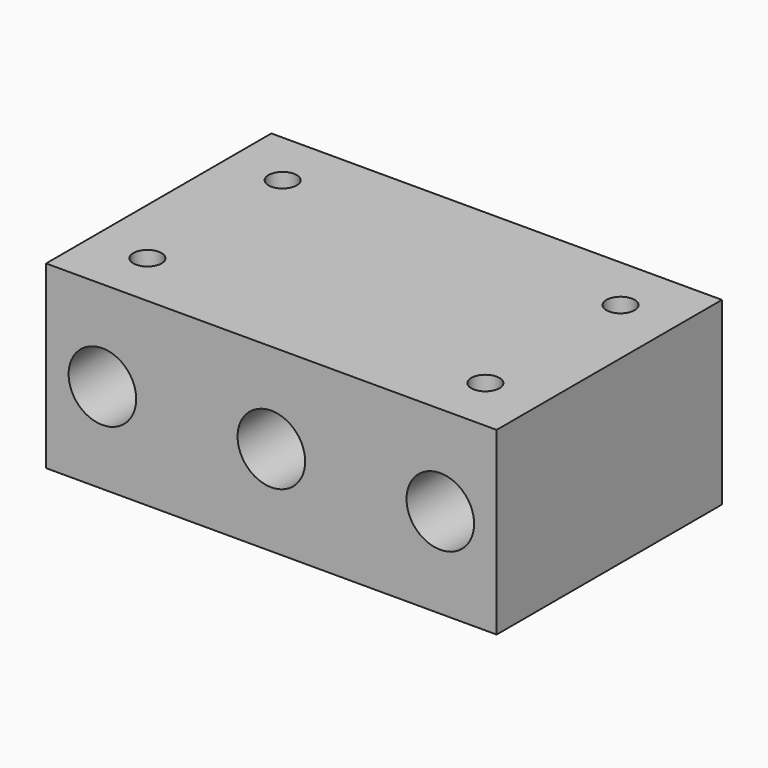
from build123d import *

# Parameters (mm, degrees)
F0_W     = 80
F0_H     = 32
F0_R     = 6
F1_DEPTH = 50
F3_D     = 5
F3_DEPTH = 8
F3_TIP   = 1.5021515476


with BuildPart() as f1:
    # F0 (on Front) → F1 (new body)
    with BuildSketch(Plane.XZ):
        Rectangle(F0_W, F0_H)
        with Locations((-30, 0)):
            Circle(F0_R, mode=Mode.SUBTRACT)
        Circle(F0_R, mode=Mode.SUBTRACT)
        with Locations((30, 0)):
            Circle(F0_R, mode=Mode.SUBTRACT)
    extrude(amount=F1_DEPTH)

    # F3
    with Locations(Plane.XY.offset(16)):
        with Locations((-30, -40), (-30, -10), (30, -40), (30, -10)):
            Hole(F3_D / 2, depth=F3_DEPTH)
            with Locations((0, 0, -(F3_DEPTH + F3_TIP / 2))):  # 118° drill point
                Cone(0, F3_D / 2, F3_TIP, mode=Mode.SUBTRACT)


solid = f1.part
